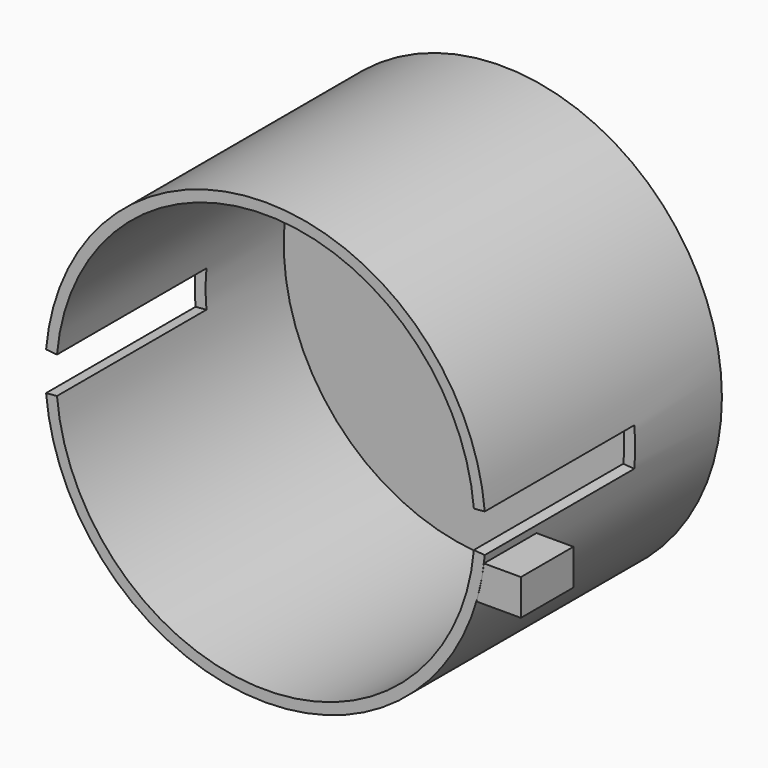
from build123d import *

# Parameters (mm, degrees)
F0_R     = 40.25
F1_DEPTH = 54
F2_T     = -2
F3_W     = 6.55362
F3_H     = 35.002304
F3_W_2   = 6.255735
F4_ANGLE = 10
F6_DEPTH = 12


with BuildPart() as f1:
    # F0 (on Front) → F1 (new body)
    with BuildSketch(Plane.XZ):
        Circle(F0_R)
    extrude(amount=F1_DEPTH)

    # F2
    f2_openings = [f1.faces().sort_by_distance(p)[0] for p in [
        (0, -54, 0),
    ]]
    offset(amount=F2_T, openings=f2_openings)

    # F3 (on Top) → F4 (revolve, symmetric, cut)
    with BuildSketch(Plane.XY) as f4_sk:
        with Locations((40.951349, -37.34813)):
            Rectangle(F3_W, F3_H)
        with Locations((-40.819993, -37.34813)):
            Rectangle(F3_W_2, F3_H)
    revolve(axis=Axis((0, 0, 0), (0, -1, 0)), revolution_arc=F4_ANGLE / 2, mode=Mode.SUBTRACT)
    revolve(f4_sk.sketch, axis=Axis((0, 0, 0), (0, 1, 0)), revolution_arc=F4_ANGLE / 2, mode=Mode.SUBTRACT)


with BuildPart() as f6:
    # F5 (on Front) → F6 (new body)
    with BuildSketch(Plane.XZ):
        with BuildLine():
            Line((46.704643, -4.890726), (39.951762, -4.890726))
            ThreePointArc((39.951762, -4.890726), (39.405059, -8.20389), (38.584089, -11.459954))
            Line((38.584089, -11.459954), (46.704643, -11.459954))
            Line((46.704643, -11.459954), (46.704643, -4.890726))
        make_face()
    extrude(amount=F6_DEPTH)


with BuildPart() as f6_1:
    # F7: moved
    add(f6.part.moved(Location((0, -42, 0))))


solid = Compound([f1.part, f6_1.part])
